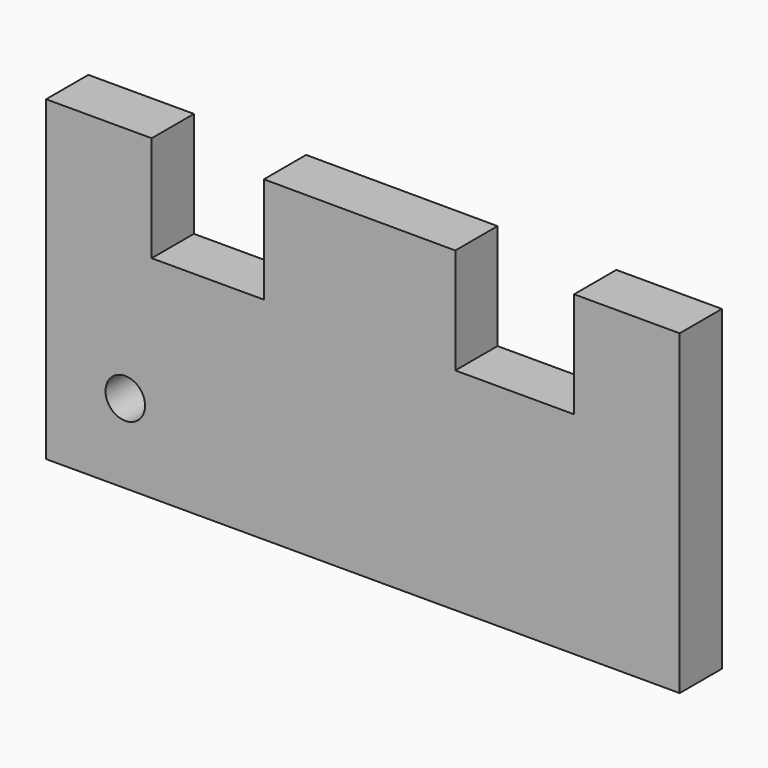
from build123d import *

# Parameters (mm, degrees)
F0_R     = 4.758249
F1_DEPTH = 12.7


with BuildPart() as f1:
    # F0 (on Front) → F1 (new body)
    with BuildSketch(Plane.XZ):
        Polygon((-48.298843, 57.15), (-73.698843, 57.15), (-73.698843, -19.05), (78.701157, -19.05), (78.701157, 57.15), (53.301157, 57.15), (53.301157, 31.730622), (24.726157, 31.730622), (24.726157, 57.130622), (-21.311343, 57.237761), (-21.311343, 31.75), (-48.298843, 31.75), align=None)
        with Locations((-54.648843, 0)):
            Circle(F0_R, mode=Mode.SUBTRACT)
    extrude(amount=F1_DEPTH)


solid = f1.part
